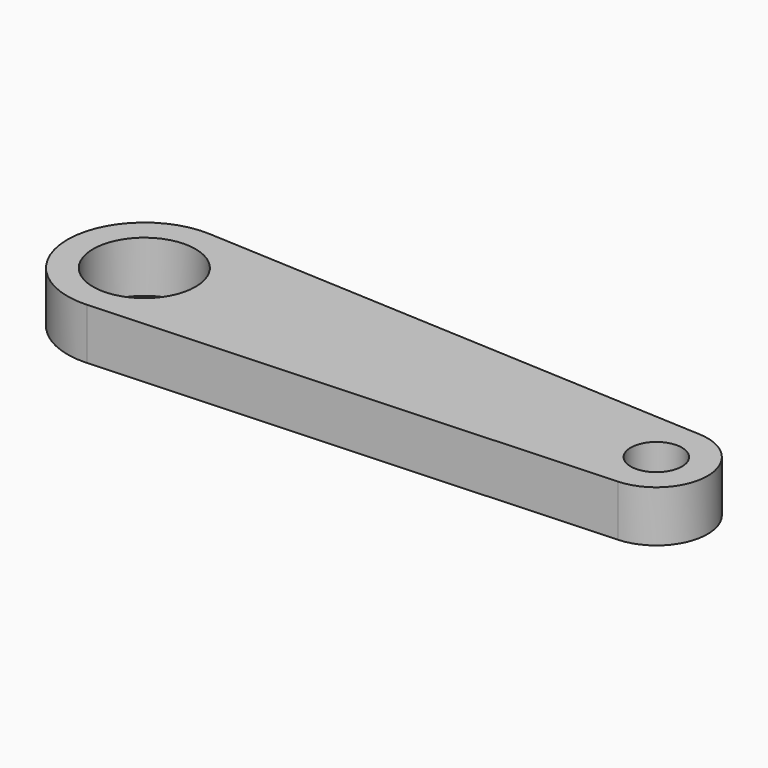
from build123d import *

# Parameters (mm, degrees)
SKETCH_R   = 2
SKETCH_R_2 = 1
PAD_DEPTH  = 2


with BuildPart() as part:
    # Sketch → Pad (new body)
    with BuildSketch(Plane.XY):
        with BuildLine():
            Line((0.15, 2.996248), (20.1, 1.997498))
            ThreePointArc((20.1, -1.997498), (22, 0), (20.1, 1.997498))
            Line((0.15, -2.996248), (20.1, -1.997498))
            ThreePointArc((0.15, 2.996248), (-3, 0), (0.15, -2.996248))
        make_face()
        Circle(SKETCH_R, mode=Mode.SUBTRACT)
        with Locations((20, 0)):
            Circle(SKETCH_R_2, mode=Mode.SUBTRACT)
    extrude(amount=PAD_DEPTH)


solid = part.part
